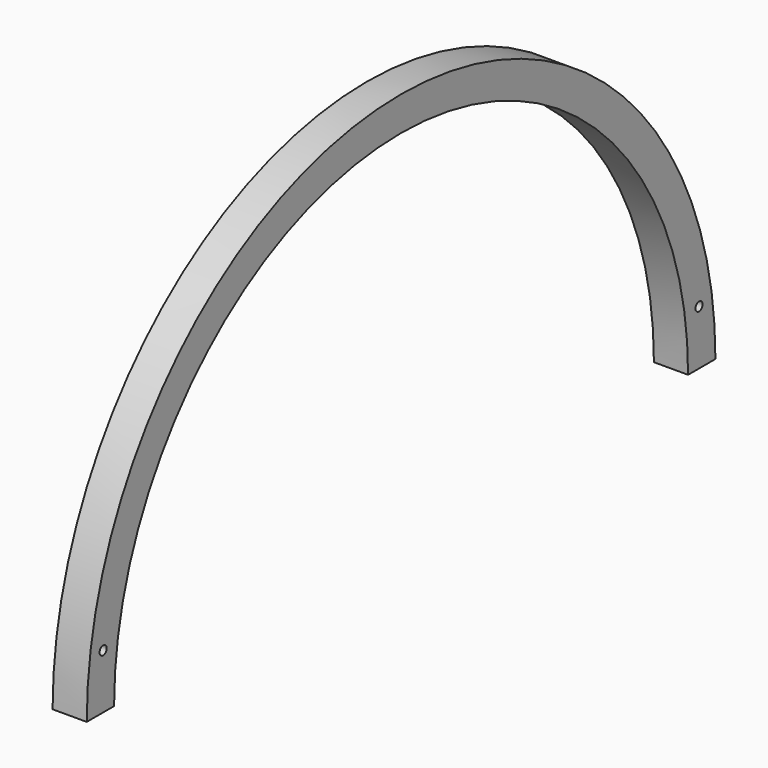
from build123d import *

# Parameters (mm, degrees)
CYLINDER071_R     = 1.3
CYLINDER071_DEPTH = 331
CYLINDER062_R     = 1.3
CYLINDER062_DEPTH = 331
CYLINDER052_W     = 105
CYLINDER052_H     = 10
CYLINDER052_ANGLE = 180
CYLINDER051_W     = 115
CYLINDER051_H     = 10
CYLINDER051_ANGLE = 180


with BuildPart() as cilindro071:
    # Cylinder071 → Cylinder071 (new body)
    with BuildSketch(Plane(origin=(5, 224, 178), x_dir=(0, 0, -1), z_dir=(1, 0, 0))):
        Circle(CYLINDER071_R)
    extrude(amount=CYLINDER071_DEPTH)


with BuildPart() as cilindro062:
    # Cylinder062 → Cylinder062 (new body)
    with BuildSketch(Plane(origin=(5, 6, 178), x_dir=(0, 0, -1), z_dir=(1, 0, 0))):
        Circle(CYLINDER062_R)
    extrude(amount=CYLINDER062_DEPTH)


with BuildPart() as cilindro052:
    # Cylinder052 → Cylinder052 (revolve)
    with BuildSketch(Plane(origin=(-3, 115, 171), x_dir=(0, -1, 0), z_dir=(0, 0, -1))):
        with Locations((52.5, 5)):
            Rectangle(CYLINDER052_W, CYLINDER052_H)
    revolve(axis=Axis((-3, 115, 171), (-1, 0, 0)), revolution_arc=CYLINDER052_ANGLE)


with BuildPart() as cut080:
    # Cylinder051 → Cylinder051 (revolve)
    with BuildSketch(Plane(origin=(-3, 115, 171), x_dir=(0, -1, 0), z_dir=(0, 0, -1))):
        with Locations((57.5, 5)):
            Rectangle(CYLINDER051_W, CYLINDER051_H)
    revolve(axis=Axis((-3, 115, 171), (-1, 0, 0)), revolution_arc=CYLINDER051_ANGLE)

    # Cut066: cut Cilindro052
    add(cilindro052.part, mode=Mode.SUBTRACT)


with BuildPart() as cut080_1:
    # Cut066 placement: moved
    add(cut080.part.moved(Location((13, 0, -9))))

    # Cut073: cut Cilindro062
    add(cilindro062.part, mode=Mode.SUBTRACT)

    # Cut080: cut Cilindro071
    add(cilindro071.part, mode=Mode.SUBTRACT)


solid = cut080_1.part
